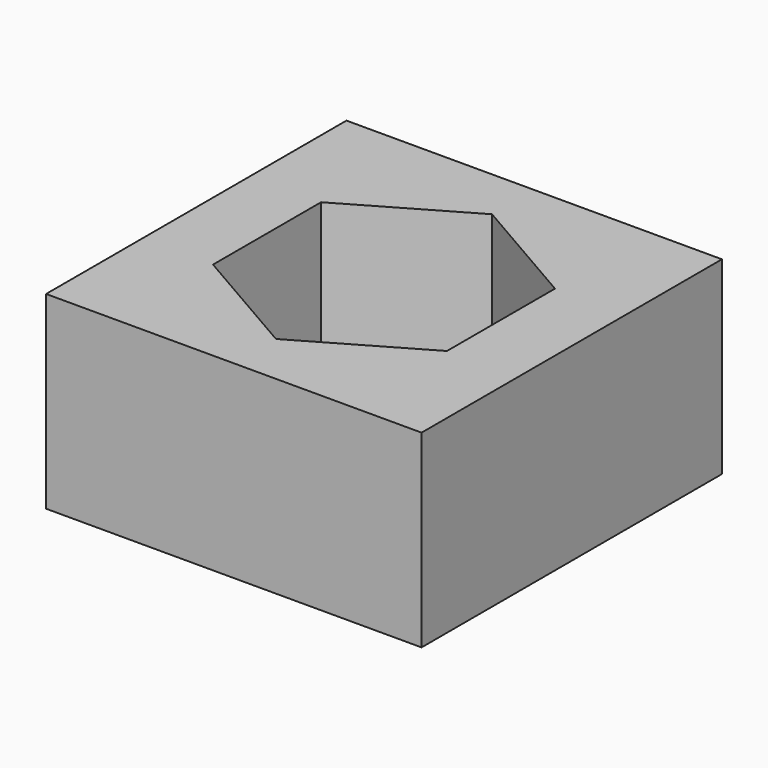
from build123d import *

# Parameters (mm, degrees)
F0_W     = 13.9
F0_H     = 13.9
F1_DEPTH = 2
F2_W     = 13.9
F2_H     = 13.9
F3_DEPTH = 5


with BuildPart() as f1:
    # F0 (on Top) → F1 (new body)
    with BuildSketch(Plane.XY):
        Rectangle(F0_W, F0_H)
        with BuildLine():
            ThreePointArc((3.334198, 1.925), (3.718814, 0.996453), (3.85, 0))
            ThreePointArc((3.85, 0), (3.718814, -0.996453), (3.334198, -1.925))
            ThreePointArc((3.334198, -1.925), (1.925, -3.334198), (0, -3.85))
            ThreePointArc((0, -3.85), (-1.925, -3.334198), (-3.334198, -1.925))
            ThreePointArc((-3.334198, -1.925), (-3.85, 0), (-3.334198, 1.925))
            ThreePointArc((-3.334198, 1.925), (-1.925, 3.334198), (0, 3.85))
            ThreePointArc((0, 3.85), (1.925, 3.334198), (3.334198, 1.925))
        make_face(mode=Mode.SUBTRACT)
        with BuildLine():
            ThreePointArc((-3.334198, -1.925), (-1.925, -3.334198), (0, -3.85))
            Line((0, -3.85), (-3.334198, -1.925))
        make_face()
        with BuildLine():
            Line((-3.334198, -1.925), (-3.334198, 1.925))
            ThreePointArc((-3.334198, 1.925), (-3.85, 0), (-3.334198, -1.925))
        make_face()
        with BuildLine():
            Line((-3.334198, 1.925), (0, 3.85))
            ThreePointArc((0, 3.85), (-1.925, 3.334198), (-3.334198, 1.925))
        make_face()
        with BuildLine():
            Line((0, 3.85), (3.334198, 1.925))
            ThreePointArc((3.334198, 1.925), (1.925, 3.334198), (0, 3.85))
        make_face()
        with BuildLine():
            ThreePointArc((3.334198, -1.925), (3.718814, -0.996453), (3.85, 0))
            ThreePointArc((3.85, 0), (3.718814, 0.996453), (3.334198, 1.925))
            Line((3.334198, 1.925), (3.334198, -1.925))
        make_face()
        with BuildLine():
            ThreePointArc((0, -3.85), (1.925, -3.334198), (3.334198, -1.925))
            Line((3.334198, -1.925), (0, -3.85))
        make_face()
    extrude(amount=F1_DEPTH)

    # F2 (on face) → F3 (join)
    with BuildSketch(Plane.XY.offset(2)):
        Rectangle(F2_W, F2_H)
        with BuildLine():
            ThreePointArc((4.330127, 2.5), (4.829629, 1.294095), (5, 0))
            ThreePointArc((5, 0), (4.829629, -1.294095), (4.330127, -2.5))
            ThreePointArc((4.330127, -2.5), (2.5, -4.330127), (0, -5))
            ThreePointArc((0, -5), (-2.5, -4.330127), (-4.330127, -2.5))
            ThreePointArc((-4.330127, -2.5), (-5, 0), (-4.330127, 2.5))
            ThreePointArc((-4.330127, 2.5), (-2.5, 4.330127), (0, 5))
            ThreePointArc((0, 5), (2.5, 4.330127), (4.330127, 2.5))
        make_face(mode=Mode.SUBTRACT)
        with BuildLine():
            Line((-4.330127, -2.5), (-4.330127, 2.5))
            ThreePointArc((-4.330127, 2.5), (-5, 0), (-4.330127, -2.5))
        make_face()
        with BuildLine():
            Line((-4.330127, 2.5), (0, 5))
            ThreePointArc((0, 5), (-2.5, 4.330127), (-4.330127, 2.5))
        make_face()
        with BuildLine():
            Line((0, 5), (4.330127, 2.5))
            ThreePointArc((4.330127, 2.5), (2.5, 4.330127), (0, 5))
        make_face()
        with BuildLine():
            ThreePointArc((4.330127, -2.5), (4.829629, -1.294095), (5, 0))
            ThreePointArc((5, 0), (4.829629, 1.294095), (4.330127, 2.5))
            Line((4.330127, 2.5), (4.330127, -2.5))
        make_face()
        with BuildLine():
            ThreePointArc((0, -5), (2.5, -4.330127), (4.330127, -2.5))
            Line((4.330127, -2.5), (0, -5))
        make_face()
        with BuildLine():
            ThreePointArc((-4.330127, -2.5), (-2.5, -4.330127), (0, -5))
            Line((0, -5), (-4.330127, -2.5))
        make_face()
    extrude(amount=F3_DEPTH)


solid = f1.part
